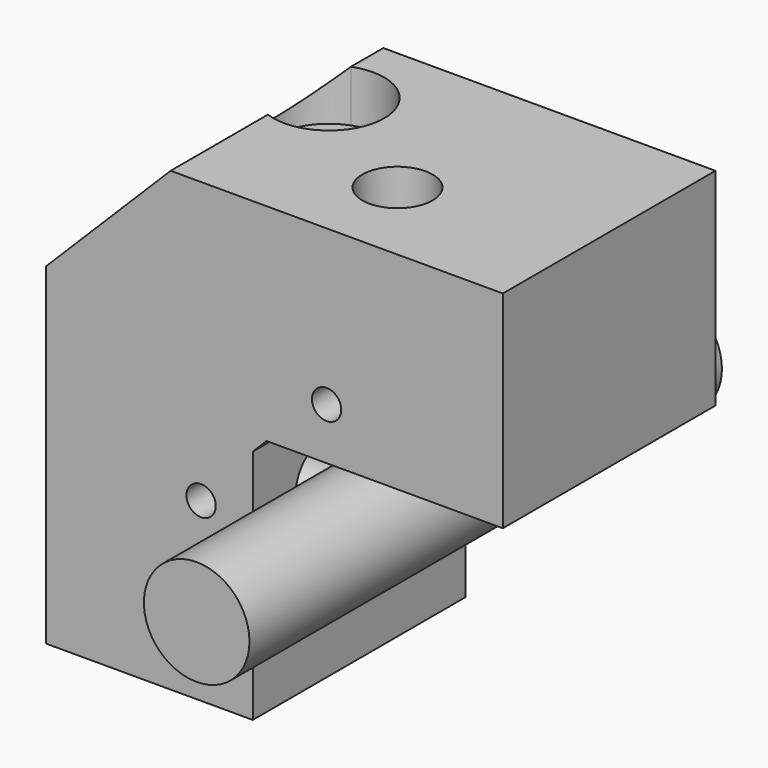
from build123d import *

# Parameters (mm, degrees)
F1_DEPTH      = 18
F1_DEPTH_BACK = 18
F2_R          = 4.7625
F3_DEPTH      = 28
F0_R          = 7.15
F4_DEPTH      = 40
F4_DEPTH_BACK = 40
F5_R          = 4.7625
F6_DEPTH      = 28
F8_R          = 1.9835
F9_DEPTH      = 7.6712040309
F10_DEPTH     = 61.877
F11_DEPTH     = 7


with BuildPart() as f1:
    # F0 (on Front) → F1 (new body, two sides)
    with BuildSketch(Plane.XZ) as f1_sk:
        Polygon((-38, -23.876), (-10, -23.876), (-10, 8.124), (-8.124, 10), (23.876, 10), (23.876, 38), (-21.124, 38), (-38, 21.124), align=None)
    extrude(amount=F1_DEPTH)
    extrude(f1_sk.sketch, amount=-F1_DEPTH_BACK)

    # F2 (on face) → F3 (cut, through all)
    with BuildSketch(Plane(origin=(-38, 0, 0), x_dir=(0, -1, 0), z_dir=(-1, 0, 0))):
        with Locations((6, 0)):
            Circle(F2_R)
    extrude(amount=-F3_DEPTH, mode=Mode.SUBTRACT)

    # F5 (on face) → F6 (cut, through all)
    with BuildSketch(Plane.XY.offset(38)):
        with Locations((0, -6)):
            Circle(F5_R)
    extrude(amount=-F6_DEPTH, mode=Mode.SUBTRACT)

    # F8 (on face) → F9 (cut, through all)
    with BuildSketch(Plane.XZ.offset(18)):
        with Locations((-17, 0)):
            Circle(F8_R)
        with Locations((0, 17)):
            Circle(F8_R)
    extrude(amount=-F9_DEPTH, mode=Mode.SUBTRACT)

    # F7 (on face) → F10 (cut, through all)
    with BuildSketch(Plane.XY.offset(38)):
        with BuildLine():
            Line((-21.124, 4.1519925816), (-21.124, 6.8480074184))
            ThreePointArc((-21.124, 6.8480074184), (-21.45, 5.5), (-21.124, 4.1519925816))
        make_face()
        with BuildLine():
            ThreePointArc((-15.55, 5.5), (-17.8065665136, 8.3673419747), (-21.124, 6.8480074184))
            Line((-21.124, 6.8480074184), (-21.124, 4.1519925816))
            ThreePointArc((-21.124, 4.1519925816), (-17.8065665136, 2.6326580253), (-15.55, 5.5))
        make_face()
    extrude(amount=-F10_DEPTH, mode=Mode.SUBTRACT)

    # F7 (on face) → F11 (cut)
    with BuildSketch(Plane.XY.offset(38)):
        with BuildLine():
            Line((-21.124, 6.8480074184), (-21.124, 12.5259962995))
            ThreePointArc((-21.124, 12.5259962995), (-26, 5.5), (-21.124, -1.5259962995))
            Line((-21.124, -1.5259962995), (-21.124, 4.1519925816))
            ThreePointArc((-21.124, 4.1519925816), (-21.45, 5.5), (-21.124, 6.8480074184))
        make_face()
        with BuildLine():
            Line((-21.124, 6.8480074184), (-21.124, 12.5259962995))
            ThreePointArc((-21.124, 12.5259962995), (-26, 5.5), (-21.124, -1.5259962995))
            Line((-21.124, -1.5259962995), (-21.124, 4.1519925816))
            ThreePointArc((-21.124, 4.1519925816), (-21.45, 5.5), (-21.124, 6.8480074184))
        make_face()
        with BuildLine():
            ThreePointArc((-21.124, -1.5259962995), (-14.2239036494, -0.6615744741), (-11, 5.5))
            ThreePointArc((-11, 5.5), (-14.2239036494, 11.6615744741), (-21.124, 12.5259962995))
            Line((-21.124, 12.5259962995), (-21.124, 6.8480074184))
            ThreePointArc((-21.124, 6.8480074184), (-17.8065665136, 8.3673419747), (-15.55, 5.5))
            ThreePointArc((-15.55, 5.5), (-17.8065665136, 2.6326580253), (-21.124, 4.1519925816))
            Line((-21.124, 4.1519925816), (-21.124, -1.5259962995))
        make_face()
    extrude(amount=-F11_DEPTH, mode=Mode.SUBTRACT)


with BuildPart() as f4:
    # F0 (on Front) → F4 (new body, two sides)
    with BuildSketch(Plane.XZ) as f4_sk:
        Circle(F0_R)
    extrude(amount=F4_DEPTH)
    extrude(f4_sk.sketch, amount=-F4_DEPTH_BACK)


solid = Compound([f1.part, f4.part])
